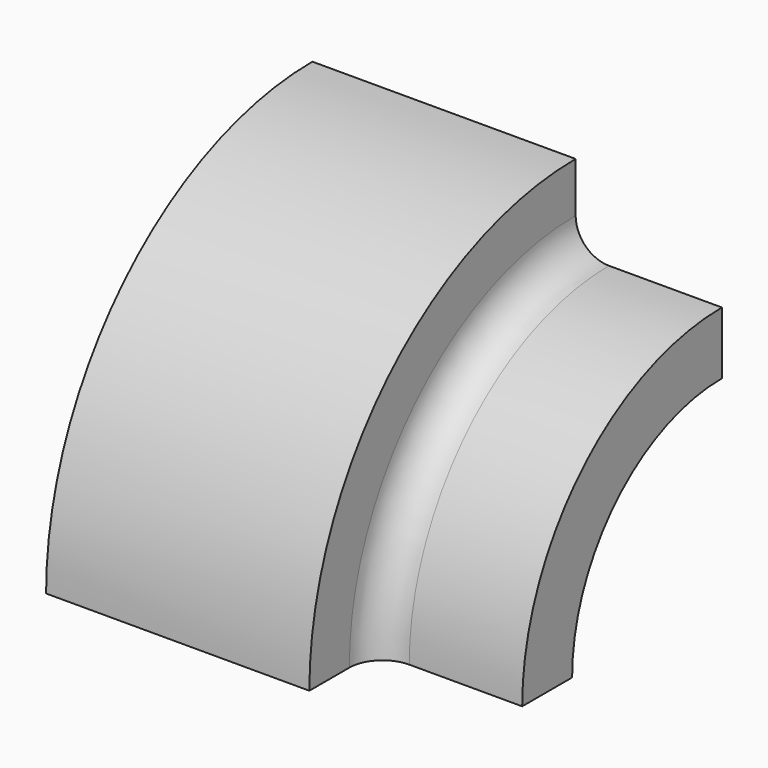
from build123d import *

# Parameters (mm, degrees)
F1_ANGLE = 90
F2_R     = 5.08


with BuildPart() as f1:
    # F0 (on Front) → F1 (revolve)
    with BuildSketch(Plane.XZ):
        Polygon((45.896156, 50.8), (5.719585, 50.8), (5.719585, 28.575), (68.21648, 28.575), (68.21648, 38.1), (45.896156, 38.1), align=None)
    revolve(axis=Axis((39.269814, 0, 0), (1, 0, 0)), revolution_arc=F1_ANGLE)

    # F2
    f2_edges = [f1.edges().sort_by_distance(p)[0] for p in [
        (45.896156, -26.940768, 26.940768),
    ]]
    fillet(f2_edges, radius=F2_R)


solid = f1.part
